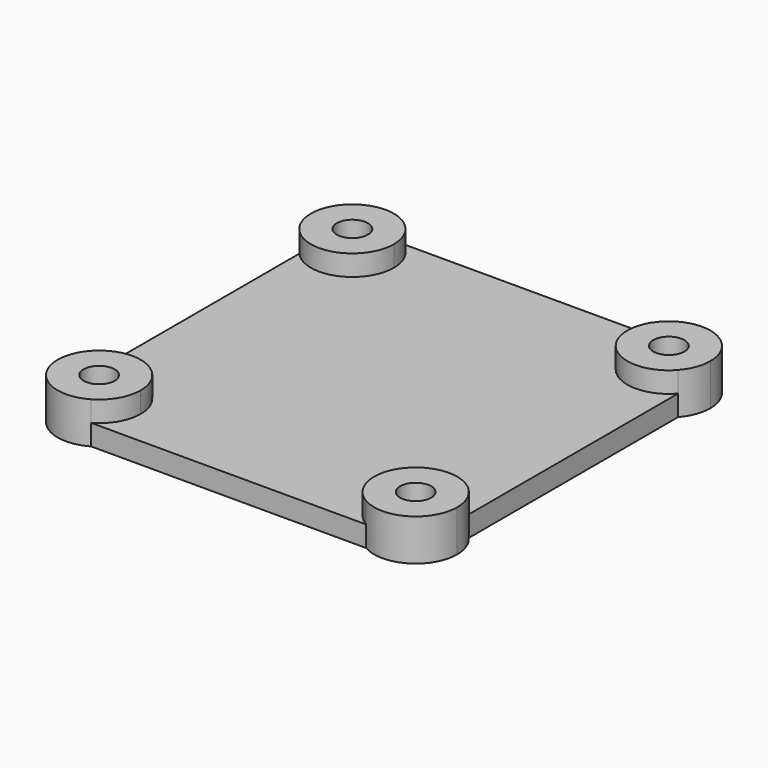
from build123d import *

# Parameters (mm, degrees)
F1_DEPTH = 2
F2_DEPTH = 4
F0_R     = 1.5
F3_DEPTH = 4
F4_DEPTH = 2


with BuildPart() as f1:
    # F0 (on Top) → F1 (new body)
    with BuildSketch(Plane.XY):
        with BuildLine():
            ThreePointArc((-3, 2.6457513111), (1.4142135624, 3.7416573868), (4, 0))
            ThreePointArc((4, 0), (3.4641016151, -2), (2, -3.4641016151))
            Line((2, -3.4641016151), (28.5, -3.4641016151))
            ThreePointArc((28.5, -3.4641016151), (27.4044264352, 2.533263568), (33.5, 2.6457513111))
            Line((33.5, 2.6457513111), (33.5, 27.8542486889))
            ThreePointArc((33.5, 27.8542486889), (27.4044264352, 27.966736432), (28.5, 33.9641016151))
            Line((28.5, 33.9641016151), (2, 33.9641016151))
            ThreePointArc((2, 33.9641016151), (3.4641016151, 32.5), (4, 30.5))
            ThreePointArc((4, 30.5), (1.4142135624, 26.7583426132), (-3, 27.8542486889))
            Line((-3, 27.8542486889), (-3, 2.6457513111))
        make_face()
    extrude(amount=F1_DEPTH)

    # F0 (on Top) → F2 (join)
    with BuildSketch(Plane.XY):
        with BuildLine():
            Line((-3, 28.7679491924), (-3, 27.8542486889))
            ThreePointArc((-3, 27.8542486889), (1.4142135624, 26.7583426132), (4, 30.5))
            ThreePointArc((4, 30.5), (3.4641016151, 32.5), (2, 33.9641016151))
            Line((2, 33.9641016151), (0, 33.9641016151))
            Line((0, 33.9641016151), (3, 32.2320508076))
            Line((3, 32.2320508076), (3, 28.7679491924))
            Line((3, 28.7679491924), (0, 27.0358983849))
            Line((0, 27.0358983849), (-3, 28.7679491924))
        make_face()
        with BuildLine():
            ThreePointArc((2, 33.9641016151), (-3.0955735648, 33.033263568), (-3, 27.8542486889))
            Line((-3, 27.8542486889), (-3, 28.7679491924))
            Line((-3, 28.7679491924), (-3, 32.2320508076))
            Line((-3, 32.2320508076), (0, 33.9641016151))
            Line((0, 33.9641016151), (2, 33.9641016151))
        make_face()
        with BuildLine():
            ThreePointArc((2, -3.4641016151), (3.4641016151, -2), (4, 0))
            ThreePointArc((4, 0), (1.4142135624, 3.7416573868), (-3, 2.6457513111))
            Line((-3, 2.6457513111), (-3, 1.7320508076))
            Line((-3, 1.7320508076), (-1.4999999564, 2.5980762365))
            Line((-1.4999999564, 2.5980762365), (0, 3.4641016151))
            Line((0, 3.4641016151), (1.4999999564, 2.5980762365))
            Line((1.4999999564, 2.5980762365), (3, 1.7320508076))
            Line((3, 1.7320508076), (3, 0))
            Line((3, 0), (3, -1.7320508076))
            Line((3, -1.7320508076), (1.4999999564, -2.5980762365))
            Line((1.4999999564, -2.5980762365), (0, -3.4641016151))
            Line((0, -3.4641016151), (2, -3.4641016151))
        make_face()
        with BuildLine():
            Line((-3, 1.7320508076), (-3, 2.6457513111))
            ThreePointArc((-3, 2.6457513111), (-3.0955735648, -2.533263568), (2, -3.4641016151))
            Line((2, -3.4641016151), (0, -3.4641016151))
            Line((0, -3.4641016151), (-1.4999999973, -2.5980762129))
            Line((-1.4999999973, -2.5980762129), (-3, -1.7320508076))
            Line((-3, -1.7320508076), (-3, 0))
            Line((-3, 0), (-3, 1.7320508076))
        make_face()
        with BuildLine():
            Line((30.5, 33.9641016151), (28.5, 33.9641016151))
            ThreePointArc((28.5, 33.9641016151), (27.4044264352, 27.966736432), (33.5, 27.8542486889))
            Line((33.5, 27.8542486889), (33.5, 28.7679491924))
            Line((33.5, 28.7679491924), (30.5, 27.0358983849))
            Line((30.5, 27.0358983849), (27.5, 28.7679491924))
            Line((27.5, 28.7679491924), (27.5, 32.2320508076))
            Line((27.5, 32.2320508076), (30.5, 33.9641016151))
        make_face()
        with BuildLine():
            ThreePointArc((34.5, 30.5), (32.5, 33.9641016151), (28.5, 33.9641016151))
            Line((28.5, 33.9641016151), (30.5, 33.9641016151))
            Line((30.5, 33.9641016151), (33.5, 32.2320508076))
            Line((33.5, 32.2320508076), (33.5, 28.7679491924))
            Line((33.5, 28.7679491924), (33.5, 27.8542486889))
            ThreePointArc((33.5, 27.8542486889), (34.2416573868, 29.0857864376), (34.5, 30.5))
        make_face()
        with BuildLine():
            Line((30.5, -3.4641016151), (28.5, -3.4641016151))
            ThreePointArc((28.5, -3.4641016151), (32.5, -3.4641016151), (34.5, 0))
            ThreePointArc((34.5, 0), (34.2416573868, 1.4142135624), (33.5, 2.6457513111))
            Line((33.5, 2.6457513111), (33.5, 1.7320508076))
            Line((33.5, 1.7320508076), (33.5, -1.7320508076))
            Line((33.5, -1.7320508076), (30.5, -3.4641016151))
        make_face()
        with BuildLine():
            ThreePointArc((33.5, 2.6457513111), (27.4044264352, 2.533263568), (28.5, -3.4641016151))
            Line((28.5, -3.4641016151), (30.5, -3.4641016151))
            Line((30.5, -3.4641016151), (27.5, -1.7320508076))
            Line((27.5, -1.7320508076), (27.5, 1.7320508076))
            Line((27.5, 1.7320508076), (30.5, 3.4641016151))
            Line((30.5, 3.4641016151), (33.5, 1.7320508076))
            Line((33.5, 1.7320508076), (33.5, 2.6457513111))
        make_face()
    extrude(amount=F2_DEPTH)

    # F0 (on Top) → F3 (join)
    with BuildSketch(Plane.XY):
        with BuildLine():
            ThreePointArc((-1.4999999564, 2.5980762365), (-2.5980761988, 1.5000000218), (-3, 0))
            ThreePointArc((-3, 0), (-2.5980762106, -1.5000000014), (-1.4999999973, -2.5980762129))
            ThreePointArc((-1.4999999973, -2.5980762129), (-2.36e-08, -3), (1.4999999564, -2.5980762365))
            ThreePointArc((1.4999999564, -2.5980762365), (2.5980761988, -1.5000000218), (3, 0))
            ThreePointArc((3, 0), (2.5980761988, 1.5000000218), (1.4999999564, 2.5980762365))
            ThreePointArc((1.4999999564, 2.5980762365), (0, 3), (-1.4999999564, 2.5980762365))
        make_face()
        Circle(F0_R, mode=Mode.SUBTRACT)
        with BuildLine():
            ThreePointArc((2, -3.4641016151), (3.4641016151, -2), (4, 0))
            ThreePointArc((4, 0), (1.4142135624, 3.7416573868), (-3, 2.6457513111))
            Line((-3, 2.6457513111), (-3, 1.7320508076))
            Line((-3, 1.7320508076), (-1.4999999564, 2.5980762365))
            Line((-1.4999999564, 2.5980762365), (0, 3.4641016151))
            Line((0, 3.4641016151), (1.4999999564, 2.5980762365))
            Line((1.4999999564, 2.5980762365), (3, 1.7320508076))
            Line((3, 1.7320508076), (3, 0))
            Line((3, 0), (3, -1.7320508076))
            Line((3, -1.7320508076), (1.4999999564, -2.5980762365))
            Line((1.4999999564, -2.5980762365), (0, -3.4641016151))
            Line((0, -3.4641016151), (2, -3.4641016151))
        make_face()
        with BuildLine():
            Line((-1.4999999564, 2.5980762365), (-3, 1.7320508076))
            Line((-3, 1.7320508076), (-3, 0))
            ThreePointArc((-3, 0), (-2.5980761988, 1.5000000218), (-1.4999999564, 2.5980762365))
        make_face()
        with BuildLine():
            Line((0, 3.4641016151), (-1.4999999564, 2.5980762365))
            ThreePointArc((-1.4999999564, 2.5980762365), (0, 3), (1.4999999564, 2.5980762365))
            Line((1.4999999564, 2.5980762365), (0, 3.4641016151))
        make_face()
        with BuildLine():
            Line((3, 1.7320508076), (1.4999999564, 2.5980762365))
            ThreePointArc((1.4999999564, 2.5980762365), (2.5980761988, 1.5000000218), (3, 0))
            Line((3, 0), (3, 1.7320508076))
        make_face()
        with BuildLine():
            ThreePointArc((3, 0), (2.5980761988, -1.5000000218), (1.4999999564, -2.5980762365))
            Line((1.4999999564, -2.5980762365), (3, -1.7320508076))
            Line((3, -1.7320508076), (3, 0))
        make_face()
        with BuildLine():
            ThreePointArc((-1.4999999973, -2.5980762129), (-2.5980762106, -1.5000000014), (-3, 0))
            Line((-3, 0), (-3, -1.7320508076))
            Line((-3, -1.7320508076), (-1.4999999973, -2.5980762129))
        make_face()
        with BuildLine():
            Line((-3, 1.7320508076), (-3, 2.6457513111))
            ThreePointArc((-3, 2.6457513111), (-3.0955735648, -2.533263568), (2, -3.4641016151))
            Line((2, -3.4641016151), (0, -3.4641016151))
            Line((0, -3.4641016151), (-1.4999999973, -2.5980762129))
            Line((-1.4999999973, -2.5980762129), (-3, -1.7320508076))
            Line((-3, -1.7320508076), (-3, 0))
            Line((-3, 0), (-3, 1.7320508076))
        make_face()
        with BuildLine():
            Line((-1.4999999973, -2.5980762129), (0, -3.4641016151))
            Line((0, -3.4641016151), (1.4999999564, -2.5980762365))
            ThreePointArc((1.4999999564, -2.5980762365), (-2.36e-08, -3), (-1.4999999973, -2.5980762129))
        make_face()
        Polygon((27.5, -1.7320508076), (30.5, -3.4641016151), (33.5, -1.7320508076), (33.5, 1.7320508076), (30.5, 3.4641016151), (27.5, 1.7320508076), align=None)
        with Locations((30.5, 0)):
            Circle(F0_R, mode=Mode.SUBTRACT)
        with BuildLine():
            ThreePointArc((33.5, 2.6457513111), (27.4044264352, 2.533263568), (28.5, -3.4641016151))
            Line((28.5, -3.4641016151), (30.5, -3.4641016151))
            Line((30.5, -3.4641016151), (27.5, -1.7320508076))
            Line((27.5, -1.7320508076), (27.5, 1.7320508076))
            Line((27.5, 1.7320508076), (30.5, 3.4641016151))
            Line((30.5, 3.4641016151), (33.5, 1.7320508076))
            Line((33.5, 1.7320508076), (33.5, 2.6457513111))
        make_face()
        with BuildLine():
            Line((30.5, -3.4641016151), (28.5, -3.4641016151))
            ThreePointArc((28.5, -3.4641016151), (32.5, -3.4641016151), (34.5, 0))
            ThreePointArc((34.5, 0), (34.2416573868, 1.4142135624), (33.5, 2.6457513111))
            Line((33.5, 2.6457513111), (33.5, 1.7320508076))
            Line((33.5, 1.7320508076), (33.5, -1.7320508076))
            Line((33.5, -1.7320508076), (30.5, -3.4641016151))
        make_face()
        with BuildLine():
            ThreePointArc((34.5, 30.5), (32.5, 33.9641016151), (28.5, 33.9641016151))
            Line((28.5, 33.9641016151), (30.5, 33.9641016151))
            Line((30.5, 33.9641016151), (33.5, 32.2320508076))
            Line((33.5, 32.2320508076), (33.5, 28.7679491924))
            Line((33.5, 28.7679491924), (33.5, 27.8542486889))
            ThreePointArc((33.5, 27.8542486889), (34.2416573868, 29.0857864376), (34.5, 30.5))
        make_face()
        Polygon((33.5, 32.2320508076), (30.5, 33.9641016151), (27.5, 32.2320508076), (27.5, 28.7679491924), (30.5, 27.0358983849), (33.5, 28.7679491924), align=None)
        with Locations((30.5, 30.5)):
            Circle(F0_R, mode=Mode.SUBTRACT)
        with BuildLine():
            Line((30.5, 33.9641016151), (28.5, 33.9641016151))
            ThreePointArc((28.5, 33.9641016151), (27.4044264352, 27.966736432), (33.5, 27.8542486889))
            Line((33.5, 27.8542486889), (33.5, 28.7679491924))
            Line((33.5, 28.7679491924), (30.5, 27.0358983849))
            Line((30.5, 27.0358983849), (27.5, 28.7679491924))
            Line((27.5, 28.7679491924), (27.5, 32.2320508076))
            Line((27.5, 32.2320508076), (30.5, 33.9641016151))
        make_face()
        with BuildLine():
            ThreePointArc((2, 33.9641016151), (-3.0955735648, 33.033263568), (-3, 27.8542486889))
            Line((-3, 27.8542486889), (-3, 28.7679491924))
            Line((-3, 28.7679491924), (-3, 32.2320508076))
            Line((-3, 32.2320508076), (0, 33.9641016151))
            Line((0, 33.9641016151), (2, 33.9641016151))
        make_face()
        Polygon((-3, 32.2320508076), (-3, 28.7679491924), (0, 27.0358983849), (3, 28.7679491924), (3, 32.2320508076), (0, 33.9641016151), align=None)
        with Locations((0, 30.5)):
            Circle(F0_R, mode=Mode.SUBTRACT)
        with BuildLine():
            Line((-3, 28.7679491924), (-3, 27.8542486889))
            ThreePointArc((-3, 27.8542486889), (1.4142135624, 26.7583426132), (4, 30.5))
            ThreePointArc((4, 30.5), (3.4641016151, 32.5), (2, 33.9641016151))
            Line((2, 33.9641016151), (0, 33.9641016151))
            Line((0, 33.9641016151), (3, 32.2320508076))
            Line((3, 32.2320508076), (3, 28.7679491924))
            Line((3, 28.7679491924), (0, 27.0358983849))
            Line((0, 27.0358983849), (-3, 28.7679491924))
        make_face()
    extrude(amount=F3_DEPTH)

    # F0 (on Top) → F4 (cut)
    with BuildSketch(Plane.XY):
        Polygon((-3, 32.2320508076), (-3, 28.7679491924), (0, 27.0358983849), (3, 28.7679491924), (3, 32.2320508076), (0, 33.9641016151), align=None)
        with Locations((0, 30.5)):
            Circle(F0_R, mode=Mode.SUBTRACT)
        Polygon((33.5, 32.2320508076), (30.5, 33.9641016151), (27.5, 32.2320508076), (27.5, 28.7679491924), (30.5, 27.0358983849), (33.5, 28.7679491924), align=None)
        with Locations((30.5, 30.5)):
            Circle(F0_R, mode=Mode.SUBTRACT)
        Polygon((27.5, -1.7320508076), (30.5, -3.4641016151), (33.5, -1.7320508076), (33.5, 1.7320508076), (30.5, 3.4641016151), (27.5, 1.7320508076), align=None)
        with Locations((30.5, 0)):
            Circle(F0_R, mode=Mode.SUBTRACT)
        with BuildLine():
            ThreePointArc((-1.4999999564, 2.5980762365), (-2.5980761988, 1.5000000218), (-3, 0))
            ThreePointArc((-3, 0), (-2.5980762106, -1.5000000014), (-1.4999999973, -2.5980762129))
            ThreePointArc((-1.4999999973, -2.5980762129), (-2.36e-08, -3), (1.4999999564, -2.5980762365))
            ThreePointArc((1.4999999564, -2.5980762365), (2.5980761988, -1.5000000218), (3, 0))
            ThreePointArc((3, 0), (2.5980761988, 1.5000000218), (1.4999999564, 2.5980762365))
            ThreePointArc((1.4999999564, 2.5980762365), (0, 3), (-1.4999999564, 2.5980762365))
        make_face()
        Circle(F0_R, mode=Mode.SUBTRACT)
        with BuildLine():
            Line((-1.4999999564, 2.5980762365), (-3, 1.7320508076))
            Line((-3, 1.7320508076), (-3, 0))
            ThreePointArc((-3, 0), (-2.5980761988, 1.5000000218), (-1.4999999564, 2.5980762365))
        make_face()
        with BuildLine():
            ThreePointArc((-1.4999999973, -2.5980762129), (-2.5980762106, -1.5000000014), (-3, 0))
            Line((-3, 0), (-3, -1.7320508076))
            Line((-3, -1.7320508076), (-1.4999999973, -2.5980762129))
        make_face()
        with BuildLine():
            ThreePointArc((3, 0), (2.5980761988, -1.5000000218), (1.4999999564, -2.5980762365))
            Line((1.4999999564, -2.5980762365), (3, -1.7320508076))
            Line((3, -1.7320508076), (3, 0))
        make_face()
        with BuildLine():
            Line((3, 1.7320508076), (1.4999999564, 2.5980762365))
            ThreePointArc((1.4999999564, 2.5980762365), (2.5980761988, 1.5000000218), (3, 0))
            Line((3, 0), (3, 1.7320508076))
        make_face()
        with BuildLine():
            Line((0, 3.4641016151), (-1.4999999564, 2.5980762365))
            ThreePointArc((-1.4999999564, 2.5980762365), (0, 3), (1.4999999564, 2.5980762365))
            Line((1.4999999564, 2.5980762365), (0, 3.4641016151))
        make_face()
        with BuildLine():
            Line((-1.4999999973, -2.5980762129), (0, -3.4641016151))
            Line((0, -3.4641016151), (1.4999999564, -2.5980762365))
            ThreePointArc((1.4999999564, -2.5980762365), (-2.36e-08, -3), (-1.4999999973, -2.5980762129))
        make_face()
    extrude(amount=F4_DEPTH, mode=Mode.SUBTRACT)


solid = f1.part
